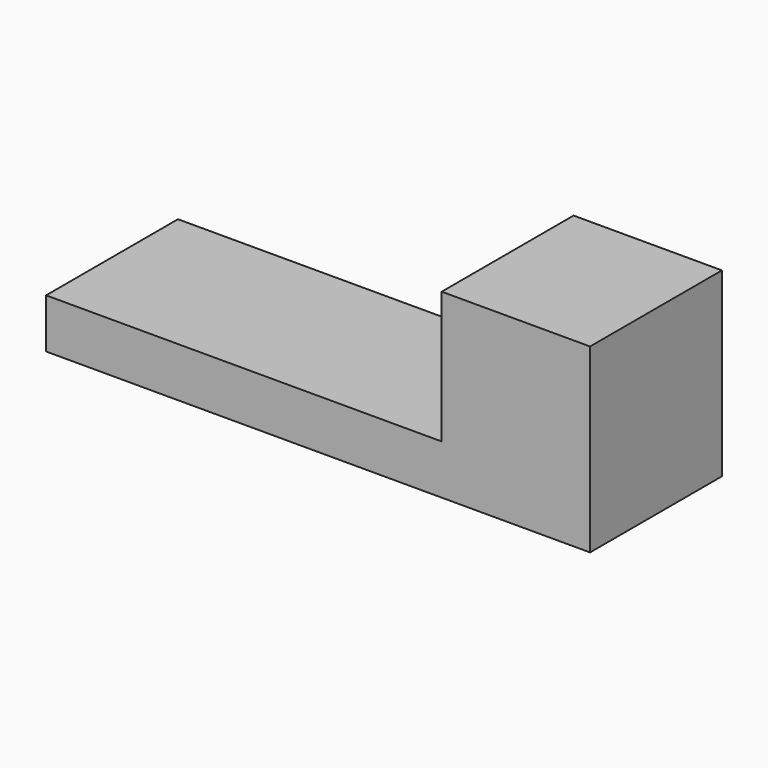
from build123d import *

# Parameters (mm, degrees)
SKETCH_W     = 33
SKETCH_H     = 10
PAD_DEPTH    = 3
SKETCH001_W  = 9
SKETCH001_H  = 10
PAD001_DEPTH = 8


with BuildPart() as part:
    # Sketch → Pad (new body)
    with BuildSketch(Plane.XY):
        Rectangle(SKETCH_W, SKETCH_H)
    extrude(amount=PAD_DEPTH)

    # Sketch001 → Pad001 (join)
    with BuildSketch(Plane.XY.offset(3)):
        with Locations((12, 0)):
            Rectangle(SKETCH001_W, SKETCH001_H)
    extrude(amount=PAD001_DEPTH)


solid = part.part
